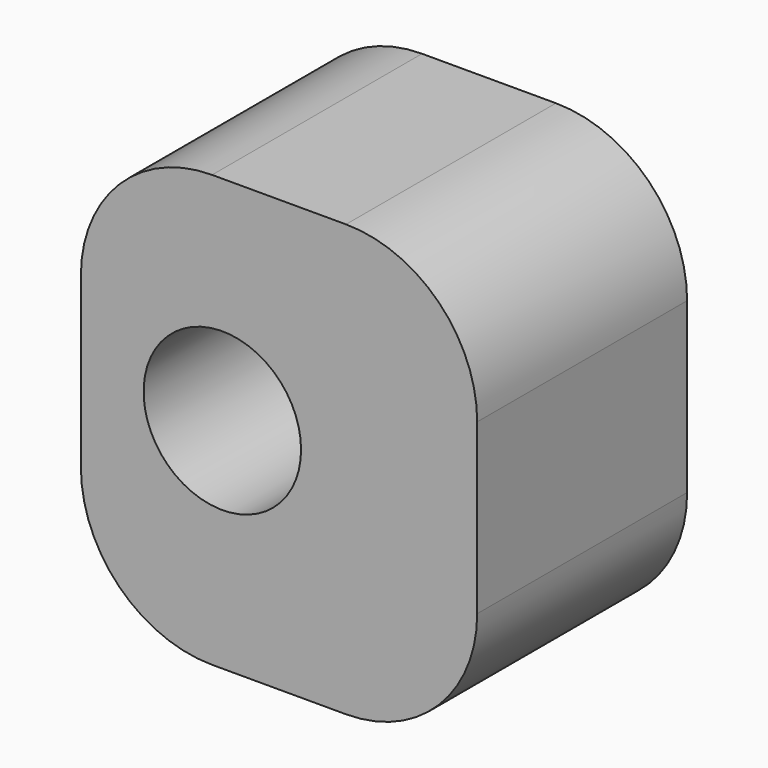
from build123d import *

# Parameters (mm, degrees)
F0_R     = 15.240913
F1_DEPTH = 25.4


with BuildPart() as f1:
    # F0 (on Front) → F1 (new body, symmetric)
    with BuildSketch(Plane.XZ):
        with BuildLine():
            ThreePointArc((-76.723859, 25.4), (-69.284371, 7.439488), (-51.323859, 0))
            Line((-51.323859, 0), (-25.4, 0))
            ThreePointArc((-25.4, 0), (-7.439488, 7.439488), (0, 25.4))
            Line((0, 25.4), (0, 58.098044))
            ThreePointArc((0, 58.098044), (-7.439488, 76.058556), (-25.4, 83.498044))
            Line((-25.4, 83.498044), (-51.323859, 83.498044))
            ThreePointArc((-51.323859, 83.498044), (-69.284371, 76.058556), (-76.723859, 58.098044))
            Line((-76.723859, 58.098044), (-76.723859, 25.4))
        make_face()
        with Locations((-49.339343, 42.257141)):
            Circle(F0_R, mode=Mode.SUBTRACT)
    extrude(amount=F1_DEPTH, both=True)


solid = f1.part
